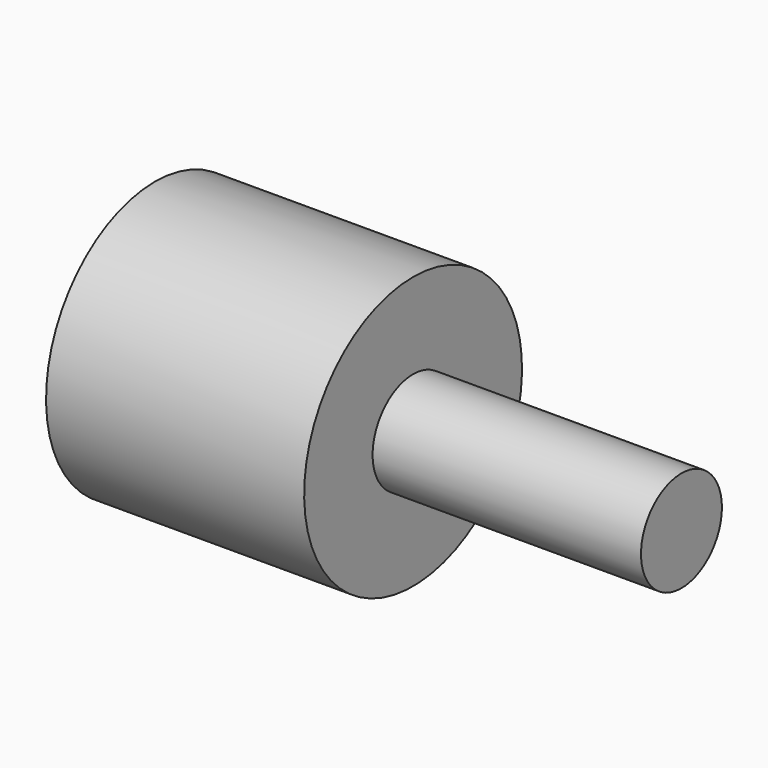
from build123d import *

# Parameters (mm, degrees)
F0_W     = 48.8582327962
F0_H     = 25.7738344371
F2_R     = 9.5744246669
F3_DEPTH = 50.8


with BuildPart() as f1:
    # F0 (on Front) → F1 (revolve)
    with BuildSketch(Plane.XZ):
        with Locations((24.4291163981, 12.8869172186)):
            Rectangle(F0_W, F0_H)
    revolve(axis=Axis((-25.5497172475, 0, 0), (1, 0, 0)))

    # F2 (on face) → F3 (join)
    with BuildSketch(Plane.YZ.offset(48.8582327962)):
        Circle(F2_R)
    extrude(amount=F3_DEPTH)


solid = f1.part
